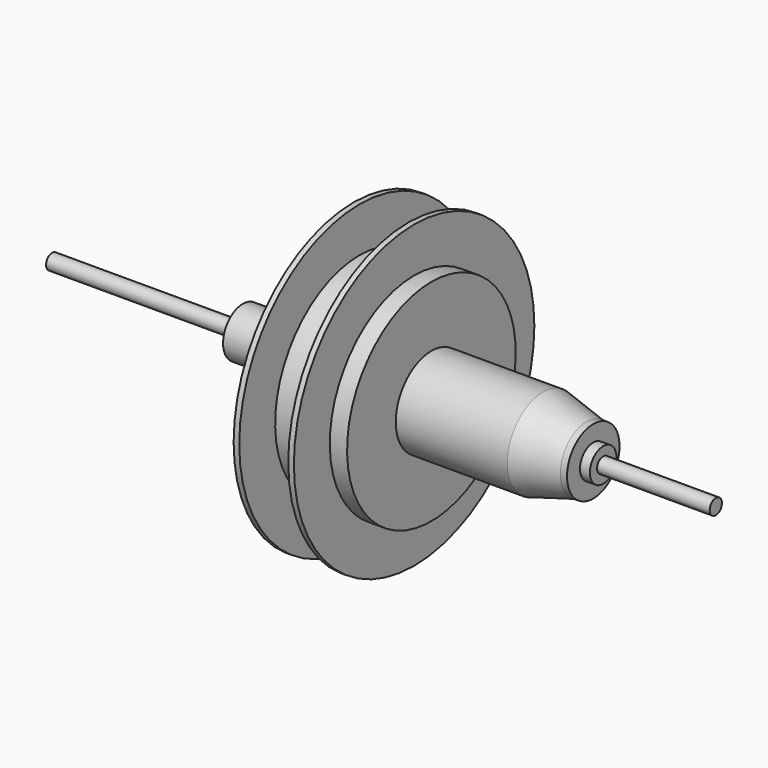
from build123d import *

# Parameters (mm, degrees)
F0_R     = 3.5011154356
F1_DEPTH = 152.4


with BuildPart() as f1:
    # F0 (on Right) → F1 (new body, symmetric)
    with BuildSketch(Plane.YZ):
        Circle(F0_R)
    extrude(amount=F1_DEPTH, both=True)


with BuildPart() as f3:
    # F2 (on Front) → F3 (revolve)
    with BuildSketch(Plane.XZ):
        Polygon((-64.8308098316, 11.3565279171), (-64.8308098316, 3.5011154356), (100.6600037217, 3.5011154356), (100.6600037217, 7.618019823), (96.1102694273, 7.618019823), (96.1102694273, 15.0795783848), (93.0164530873, 15.0795783848), (72.9976370931, 20.4718392342), (21.7721685767, 20.4718392342), (21.7721685767, 48.4064333141), (13.8342473656, 48.4064333141), (13.8342473656, 69.0301209688), (11.2562859431, 69.0301209688), (11.2562859431, 48.4064333141), (0, 48.4064333141), (-11.2562859431, 48.4064333141), (-11.2562859431, 69.0301209688), (-13.8342473656, 69.0301209688), (-13.8342473656, 48.4064333141), (-21.7721685767, 48.4064333141), (-21.7721685767, 20.4718392342), (-25.8407052606, 20.4718392342), (-27.7412757277, 18.6528284103), (-35.3415906429, 18.6528284103), (-35.3415906429, 11.3565279171), align=None)
    revolve(axis=Axis((88.1642699242, 0, 0), (1, 0, 0)))


solid = Compound([f1.part, f3.part])
